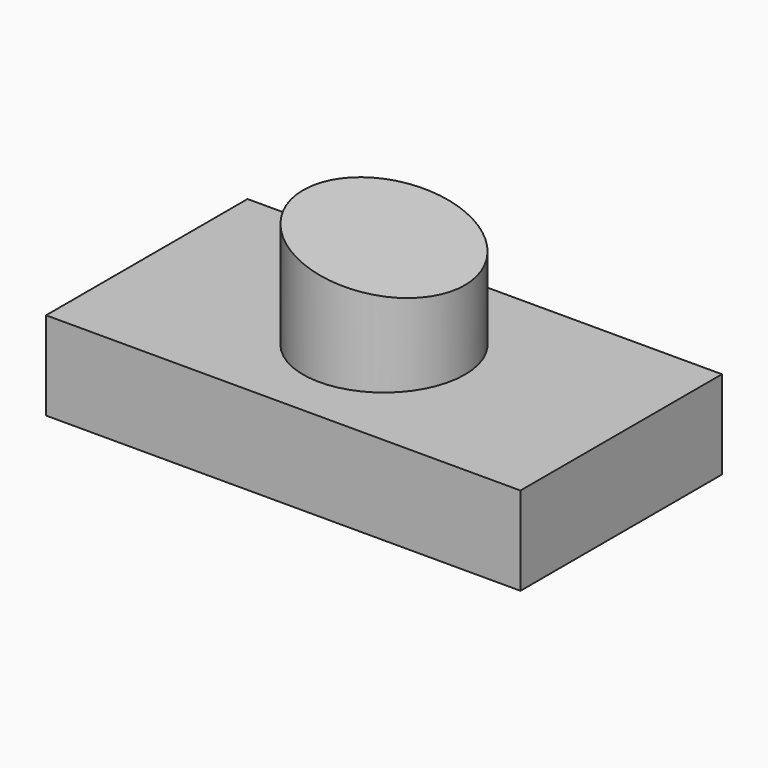
from build123d import *

# Parameters (mm, degrees)
F0_W          = 136.4381015301
F0_H          = 72.4301114678
F1_DEPTH      = 25.4
F2_R          = 23.2656169201
F3_DEPTH      = 36.322
F5_DEPTH      = 25.4
F5_DEPTH_BACK = 25.4


with BuildPart() as f1:
    # F0 (on Top) → F1 (new body)
    with BuildSketch(Plane.XY):
        Rectangle(F0_W, F0_H)
    extrude(amount=F1_DEPTH)

    # F2 (on face) → F3 (join)
    with BuildSketch(Plane.XY.offset(25.4)):
        Circle(F2_R)
    extrude(amount=F3_DEPTH)

    # F4 (on Front) → F5 (cut, two sides)
    with BuildSketch(Plane.XZ) as f5_sk:
        Polygon((54.1822127998, 69.6227326989), (-68.4997886419, 65.6924173236), (54.1822127998, 42.1105287969), align=None)
    extrude(amount=-F5_DEPTH, mode=Mode.SUBTRACT)
    extrude(f5_sk.sketch, amount=F5_DEPTH_BACK, mode=Mode.SUBTRACT)


solid = f1.part
